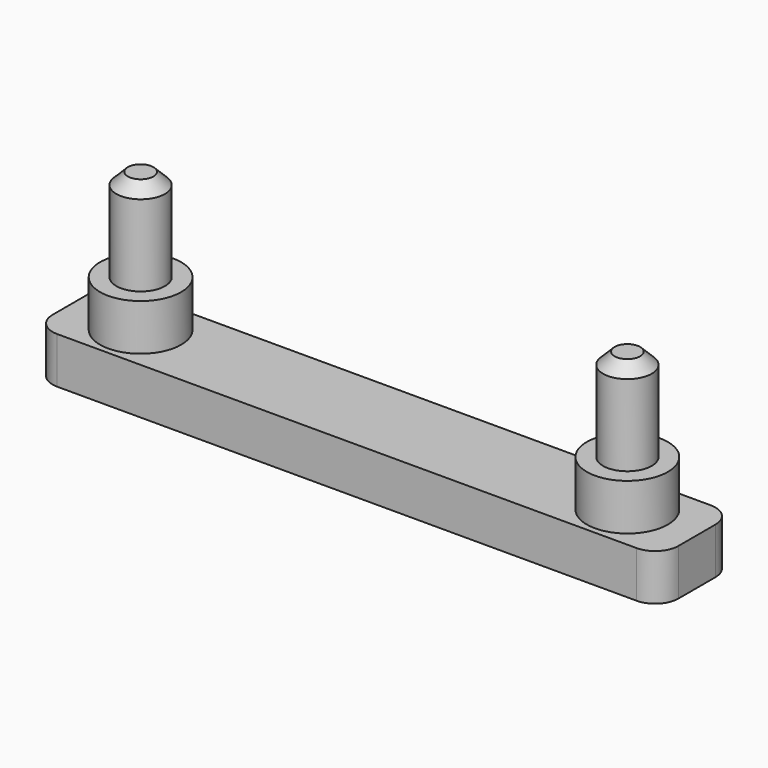
from build123d import *

# Parameters (mm, degrees)
F0_W     = 27
F0_H     = 4
F1_DEPTH = 2
F2_R     = 1.05
F3_DEPTH = 6
F4_SIZE  = 0.5
F5_R     = 1
F6_R     = 1.75
F7_DEPTH = 2


with BuildPart() as f1:
    # F0 (on Top) → F1 (new body)
    with BuildSketch(Plane.XY):
        Rectangle(F0_W, F0_H)
    extrude(amount=F1_DEPTH)

    # F2 (on face) → F3 (join)
    with BuildSketch(Plane.XY.offset(2)):
        with Locations((-10.5, 0)):
            Circle(F2_R)
        with BuildLine():
            ThreePointArc((11.55, 0), (10.5, 1.05), (9.45, 0))
            ThreePointArc((9.45, 0), (10.5, -1.05), (11.55, 0))
        make_face()
    extrude(amount=F3_DEPTH)

    # F4
    f4_edges = [f1.edges().sort_by_distance(p)[0] for p in [
        (-11.55, 0, 8),
        (11.55, 0, 8),
    ]]
    chamfer(f4_edges, length=F4_SIZE)

    # F5
    f5_edges = [f1.edges().sort_by_distance(p)[0] for p in [
        (-13.5, -2, 1),
        (-13.5, 2, 1),
        (13.5, 2, 1),
        (13.5, -2, 1),
    ]]
    fillet(f5_edges, radius=F5_R)

    # F6 (on face) → F7 (join)
    with BuildSketch(Plane.XY.offset(2)):
        with Locations((-10.5, 0)):
            Circle(F6_R)
        with Locations((10.5, 0)):
            Circle(F6_R)
    extrude(amount=F7_DEPTH)


solid = f1.part
